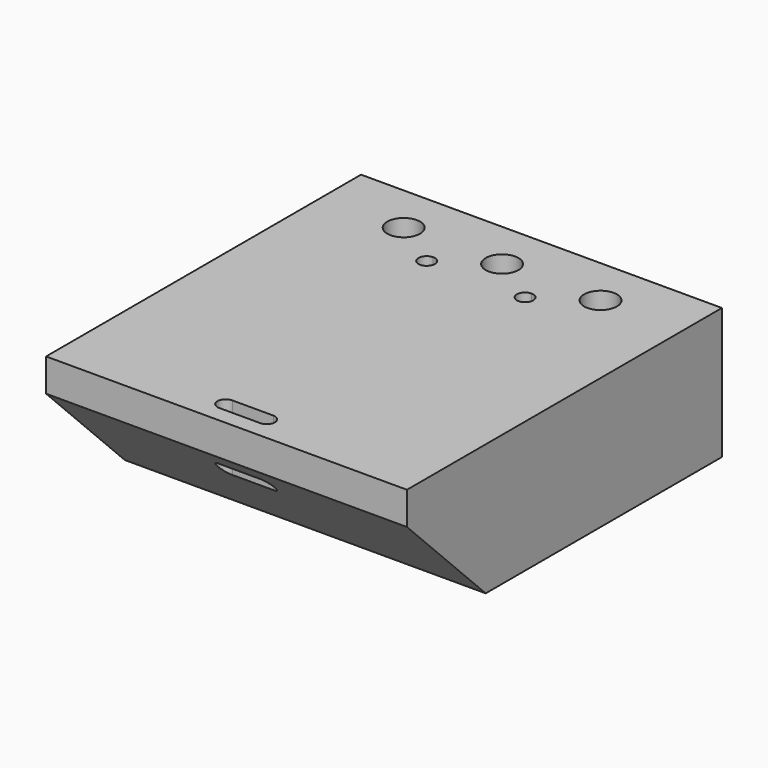
from build123d import *

# Parameters (mm, degrees)
F0_W     = 139.7
F0_H     = 152.4
F1_DEPTH = 50.8
F2_R     = 6.35
F3_DEPTH = 50.801
F5_DEPTH = 139.701


with BuildPart() as f1:
    # F0 (on Top) → F1 (new body)
    with BuildSketch(Plane.XY):
        Rectangle(F0_W, F0_H)
    extrude(amount=-F1_DEPTH)

    # F2 (on face) → F3 (cut, through all)
    with BuildSketch(Plane.XY):
        with BuildLine():
            Line((-7.9375, -69.85), (7.9375, -69.85))
            ThreePointArc((7.9375, -69.85), (11.1125, -66.675), (7.9375, -63.5))
            Line((7.9375, -63.5), (-7.9375, -63.5))
            ThreePointArc((-7.9375, -63.5), (-11.1125, -66.675), (-7.9375, -69.85))
        make_face()
        with BuildLine():
            Line((0, 57.15), (6.35, 57.15))
            ThreePointArc((6.35, 57.15), (0, 63.5), (-6.35, 57.15))
            Line((-6.35, 57.15), (0, 57.15))
        make_face()
        with BuildLine():
            ThreePointArc((-15.875, 44.45), (-16.804936, 46.695064), (-19.05, 47.625))
            ThreePointArc((-19.05, 47.625), (-21.295064, 42.204936), (-15.875, 44.45))
        make_face()
        with Locations((-38.1, 57.15)):
            Circle(F2_R)
        with BuildLine():
            ThreePointArc((44.45, 57.15), (38.1, 63.5), (31.75, 57.15))
            ThreePointArc((31.75, 57.15), (38.1, 50.8), (44.45, 57.15))
        make_face()
        with BuildLine():
            ThreePointArc((22.225, 44.45), (21.295064, 46.695064), (19.05, 47.625))
            ThreePointArc((19.05, 47.625), (16.804936, 42.204936), (22.225, 44.45))
        make_face()
        with BuildLine():
            ThreePointArc((-6.35, 57.15), (0, 50.8), (6.35, 57.15))
            Line((6.35, 57.15), (0, 57.15))
            Line((0, 57.15), (-6.35, 57.15))
        make_face()
    extrude(amount=-F3_DEPTH, mode=Mode.SUBTRACT)

    # F4 (on face) → F5 (cut, through all)
    with BuildSketch(Plane.YZ.offset(69.85)):
        Polygon((-76.2, -12.7), (-76.2, -50.8), (-38.1, -50.8), align=None)
    extrude(amount=-F5_DEPTH, mode=Mode.SUBTRACT)


solid = f1.part
